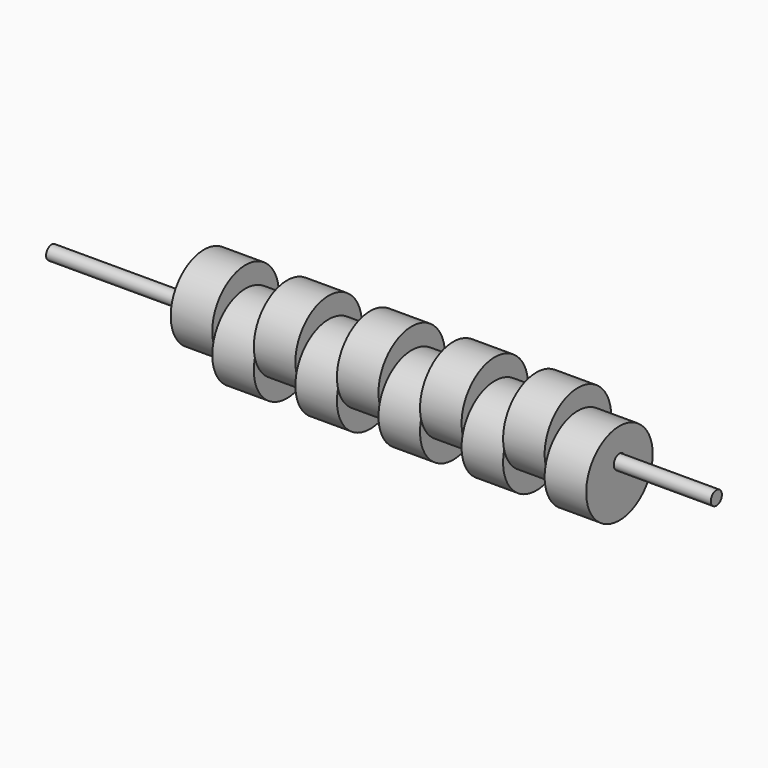
from build123d import *

# Parameters (mm, degrees)
F1_R      = 19.05
F1_R_2    = 3.175
F20_DEPTH = 19.05
F15_R     = 19.05
F15_R_2   = 3.175
F11_R     = 19.05
F11_R_2   = 3.175
F16_R     = 19.05
F16_R_2   = 3.175
F12_R     = 19.05
F12_R_2   = 3.175
F17_R     = 19.05
F17_R_2   = 3.175
F13_R     = 19.05
F13_R_2   = 3.175
F18_R     = 19.05
F18_R_2   = 3.175
F14_R     = 19.05
F14_R_2   = 3.175
F19_R     = 19.05
F19_R_2   = 3.175
F21_W     = 304.8
F21_H     = 3.175


with BuildPart() as f20:
    # F1 (on offset) → F20 (new body)
    with BuildSketch(Plane.YZ.offset(50.8)):
        with Locations((0, 4.7625)):
            Circle(F1_R)
        Circle(F1_R_2, mode=Mode.SUBTRACT)
    extrude(amount=F20_DEPTH)


with BuildPart() as f20b:
    # F15 (on offset) → F20, piece 2 (new body)
    with BuildSketch(Plane.YZ.offset(69.85)):
        with Locations((0, -4.7625)):
            Circle(F15_R)
        Circle(F15_R_2, mode=Mode.SUBTRACT)
    extrude(amount=F20_DEPTH)


with BuildPart() as f20c:
    # F11 (on offset) → F20, piece 3 (new body)
    with BuildSketch(Plane.YZ.offset(88.9)):
        with Locations((0, 4.7625)):
            Circle(F11_R)
        Circle(F11_R_2, mode=Mode.SUBTRACT)
    extrude(amount=F20_DEPTH)


with BuildPart() as f20d:
    # F16 (on offset) → F20, piece 4 (new body)
    with BuildSketch(Plane.YZ.offset(107.95)):
        with Locations((0, -4.7751972452)):
            Circle(F16_R)
        with Locations((0, -0.0126972452)):
            Circle(F16_R_2, mode=Mode.SUBTRACT)
    extrude(amount=F20_DEPTH)


with BuildPart() as f20e:
    # F12 (on offset) → F20, piece 5 (new body)
    with BuildSketch(Plane.YZ.offset(127)):
        with Locations((0, 4.7625)):
            Circle(F12_R)
        Circle(F12_R_2, mode=Mode.SUBTRACT)
    extrude(amount=F20_DEPTH)


with BuildPart() as f20f:
    # F17 (on offset) → F20, piece 6 (new body)
    with BuildSketch(Plane.YZ.offset(146.05)):
        with Locations((0, -4.826000426)):
            Circle(F17_R)
        with Locations((0, -0.063500426)):
            Circle(F17_R_2, mode=Mode.SUBTRACT)
    extrude(amount=F20_DEPTH)


with BuildPart() as f20g:
    # F13 (on offset) → F20, piece 7 (new body)
    with BuildSketch(Plane.YZ.offset(165.1)):
        with Locations((0, 4.7625)):
            Circle(F13_R)
        Circle(F13_R_2, mode=Mode.SUBTRACT)
    extrude(amount=F20_DEPTH)


with BuildPart() as f20h:
    # F18 (on offset) → F20, piece 8 (new body)
    with BuildSketch(Plane.YZ.offset(184.15)):
        with Locations((0, -4.8259999603)):
            Circle(F18_R)
        with Locations((0, -0.0634999603)):
            Circle(F18_R_2, mode=Mode.SUBTRACT)
    extrude(amount=F20_DEPTH)


with BuildPart() as f20i:
    # F14 (on offset) → F20, piece 9 (new body)
    with BuildSketch(Plane.YZ.offset(203.2)):
        with Locations((0, 4.7625)):
            Circle(F14_R)
        Circle(F14_R_2, mode=Mode.SUBTRACT)
    extrude(amount=F20_DEPTH)


with BuildPart() as f20j:
    # F19 (on offset) → F20, piece 10 (new body)
    with BuildSketch(Plane.YZ.offset(222.25)):
        with Locations((0, -4.5038438402)):
            Circle(F19_R)
        with Locations((0, 0.2586561598)):
            Circle(F19_R_2, mode=Mode.SUBTRACT)
    extrude(amount=F20_DEPTH)


with BuildPart() as f22:
    # F21 (on Front) → F22 (revolve)
    with BuildSketch(Plane.XZ):
        with Locations((133.35, 1.5875)):
            Rectangle(F21_W, F21_H)
    revolve(axis=Axis((133.35, 0, 0), (1, 0, 0)))


solid = Compound([f20.part, f20b.part, f20c.part, f20d.part, f20e.part, f20f.part, f20g.part, f20h.part, f20i.part, f20j.part, f22.part])
